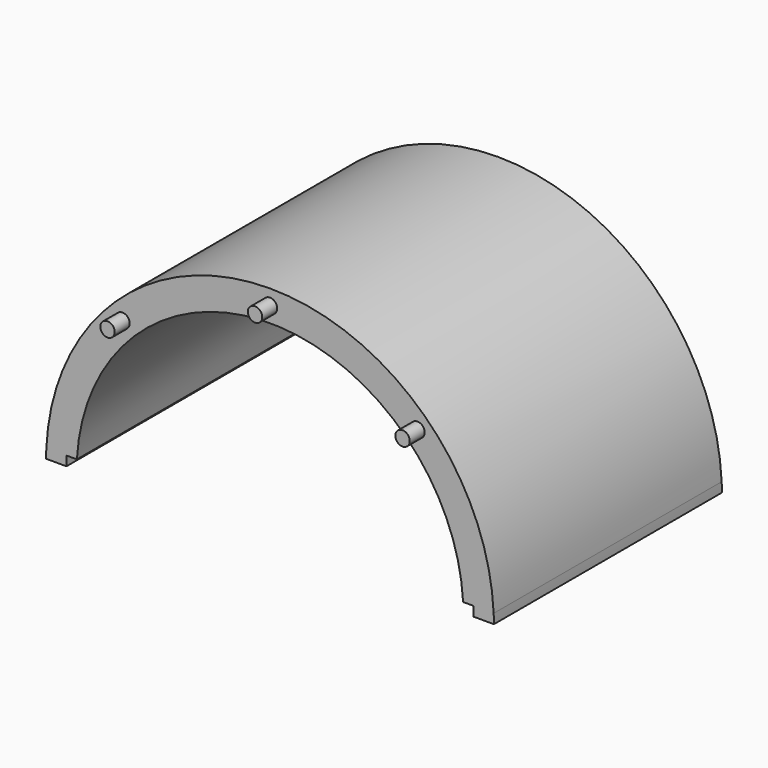
from build123d import *

# Parameters (mm, degrees)
F1_DEPTH = 88.9
F2_R     = 2.2479
F3_DEPTH = 5.842
F4_START = -82.55
F4_DEPTH = 6.35


with BuildPart() as f1:
    # F0 (on Front) → F1 (new body)
    with BuildSketch(Plane.XZ):
        with BuildLine():
            Line((26.9766840256, 11.7828417273), (30.0785363078, 11.7828417273))
            ThreePointArc((30.0785363078, 11.7828417273), (-36.5136837388, 75.1364181979), (-103.1059037855, 11.7828417273))
            Line((-103.1059037855, 11.7828417273), (-100.0040515032, 11.7828417273))
            Line((-100.0040515032, 11.7828417273), (-96.7471775005, 11.7828417273))
            ThreePointArc((-96.7471775005, 11.7828417273), (-36.5136837388, 68.7864181979), (23.7198100229, 11.7828417273))
            Line((23.7198100229, 11.7828417273), (26.9766840256, 11.7828417273))
        make_face()
        with BuildLine():
            Line((-100.0040515032, 11.7828417273), (-103.1059037855, 11.7828417273))
            ThreePointArc((-103.1059037855, 11.7828417273), (-103.1634009398, 10.2973980525), (-103.1877670725, 8.8110417273))
            Line((-103.1877670725, 8.8110417273), (-100.0040515032, 8.8110417273))
            Line((-100.0040515032, 8.8110417273), (-100.0040515032, 11.7828417273))
        make_face()
        with BuildLine():
            Line((26.9766840256, 8.8110417273), (30.1603995949, 8.8110417273))
            ThreePointArc((30.1603995949, 8.8110417273), (30.1360334622, 10.2973980525), (30.0785363078, 11.7828417273))
            Line((30.0785363078, 11.7828417273), (26.9766840256, 11.7828417273))
            Line((26.9766840256, 11.7828417273), (26.9766840256, 8.8110417273))
        make_face()
        with BuildLine():
            Line((30.1603995949, 8.8110417273), (33.335441262, 8.8110417273))
            ThreePointArc((33.335441262, 8.8110417273), (33.312184154, 10.2973574694), (33.2573033958, 11.7828417273))
            Line((33.2573033958, 11.7828417273), (30.0785363078, 11.7828417273))
            ThreePointArc((30.0785363078, 11.7828417273), (30.1360334622, 10.2973980525), (30.1603995949, 8.8110417273))
        make_face()
        with BuildLine():
            Line((30.0785363078, 11.7828417273), (33.2573033958, 11.7828417273))
            ThreePointArc((33.2573033958, 11.7828417273), (-36.5136837388, 78.3114181979), (-106.2846708734, 11.7828417273))
            Line((-106.2846708734, 11.7828417273), (-103.1059037855, 11.7828417273))
            ThreePointArc((-103.1059037855, 11.7828417273), (-36.5136837388, 75.1364181979), (30.0785363078, 11.7828417273))
        make_face()
        with BuildLine():
            Line((-103.1059037855, 11.7828417273), (-106.2846708734, 11.7828417273))
            ThreePointArc((-106.2846708734, 11.7828417273), (-106.3395516317, 10.2973574694), (-106.3628087397, 8.8110417273))
            Line((-106.3628087397, 8.8110417273), (-103.1877670725, 8.8110417273))
            ThreePointArc((-103.1877670725, 8.8110417273), (-103.1634009398, 10.2973980525), (-103.1059037855, 11.7828417273))
        make_face()
    extrude(amount=F1_DEPTH)

    # F2 (on face) → F3 (join)
    with BuildSketch(Plane.XZ.offset(88.9)):
        with Locations((-36.5136837388, 73.5362181979)):
            Circle(F2_R)
        with Locations((9.5011486255, 54.4762505622)):
            Circle(F2_R)
        with Locations((-82.5285161032, 54.4762505622)):
            Circle(F2_R)
    extrude(amount=F3_DEPTH)

    # F2 (on face) → F4 (cut)
    with BuildSketch(Plane.XZ.offset(88.9).offset(F4_START)):
        with Locations((-82.5285161032, 54.4762505622)):
            Circle(F2_R)
        with Locations((-36.5136837388, 73.5362181979)):
            Circle(F2_R)
        with Locations((9.5011486255, 54.4762505622)):
            Circle(F2_R)
    extrude(amount=-F4_DEPTH, mode=Mode.SUBTRACT)


solid = f1.part
